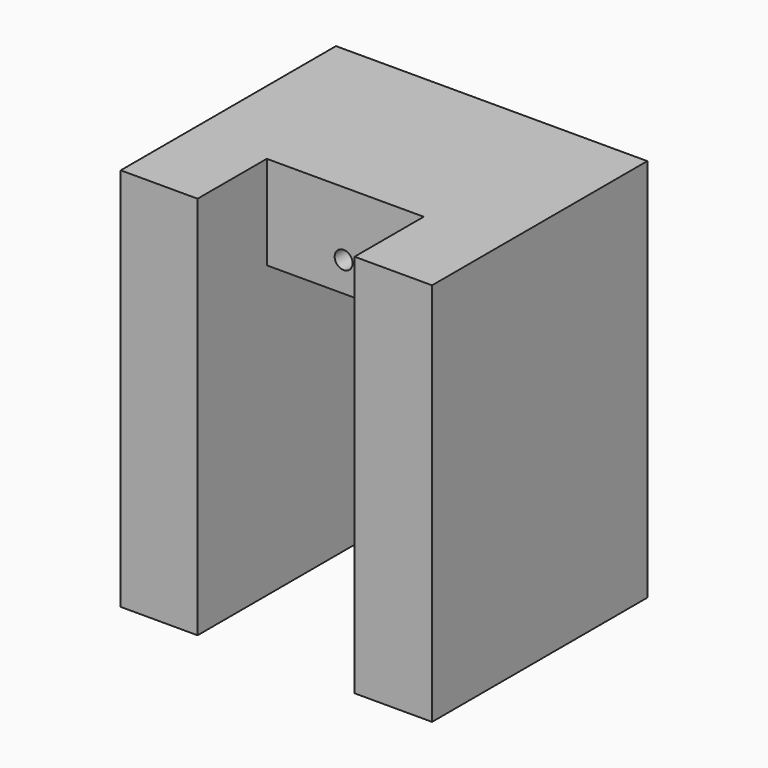
from build123d import *

# Parameters (mm, degrees)
CYLINDER004_R     = 2.4
CYLINDER004_DEPTH = 13
CYLINDER005_R     = 2.7
CYLINDER005_DEPTH = 1
CYLINDER006_R     = 2.7
CYLINDER006_DEPTH = 1
CYLINDER003_R     = 2.4
CYLINDER003_DEPTH = 13
CYLINDER002_R     = 0.7
CYLINDER002_DEPTH = 16
BOX007_W          = 12.25
BOX007_H          = 10
BOX007_DEPTH      = 10
BOX003_W          = 12.25
BOX003_H          = 23.78
BOX003_DEPTH      = 22.68
BOX008_W          = 24.3
BOX008_H          = 21
BOX008_DEPTH      = 30


with BuildPart() as cylinder004:
    # Cylinder004 → Cylinder004 (new body)
    with BuildSketch(Plane(origin=(14.74, 17.5, -6.5), x_dir=(1, 0, 0), z_dir=(0, 0, 1))):
        Circle(CYLINDER004_R)
    extrude(amount=CYLINDER004_DEPTH)


with BuildPart() as cylinder005:
    # Cylinder005 → Cylinder005 (new body)
    with BuildSketch(Plane(origin=(-2.5, 17.5, 6.5), x_dir=(1, 0, 0), z_dir=(0, 0, 1))):
        Circle(CYLINDER005_R)
    extrude(amount=CYLINDER005_DEPTH)


with BuildPart() as cylinder006:
    # Cylinder006 → Cylinder006 (new body)
    with BuildSketch(Plane(origin=(14.74, 17.5, 6.5), x_dir=(1, 0, 0), z_dir=(0, 0, 1))):
        Circle(CYLINDER006_R)
    extrude(amount=CYLINDER006_DEPTH)


with BuildPart() as fusion004:
    # Cylinder003 → Cylinder003 (new body)
    with BuildSketch(Plane(origin=(-2.5, 17.5, -6.5), x_dir=(1, 0, 0), z_dir=(0, 0, 1))):
        Circle(CYLINDER003_R)
    extrude(amount=CYLINDER003_DEPTH)

    # Fusion004: union Cylinder004, Cylinder005, Cylinder006
    add(cylinder004.part)
    add(cylinder005.part)
    add(cylinder006.part)


with BuildPart() as fusion004_1:
    # Fusion004 placement: moved
    add(fusion004.part.moved(Location((0, 0, 1))))


with BuildPart() as cylinder002:
    # Cylinder002 → Cylinder002 (new body)
    with BuildSketch(Plane(origin=(6, 22, 25), x_dir=(1, 0, 0), z_dir=(0, -1, 0))):
        Circle(CYLINDER002_R)
    extrude(amount=CYLINDER002_DEPTH)


with BuildPart() as cube004:
    # Box007 → Box007 (new body)
    with BuildSketch(Plane(origin=(0, -3.25, 22), x_dir=(1, 0, 0), z_dir=(0, 0, 1))):
        with Locations((6.125, 5)):
            Rectangle(BOX007_W, BOX007_H)
    extrude(amount=BOX007_DEPTH)


with BuildPart() as servo002:
    # Box003 → Box003 (new body)
    with BuildSketch(Plane(origin=(0, -1, 0), x_dir=(1, 0, 0), z_dir=(0, 0, 1))):
        with Locations((6.125, 11.89)):
            Rectangle(BOX003_W, BOX003_H)
    extrude(amount=BOX003_DEPTH)

    # Fusion002: union Cube004
    add(cube004.part)


with BuildPart() as fusion003:
    # Fusion003 base: copy of Cube004
    add(cube004.part)

    # Fusion003: union servo002
    add(servo002.part)


with BuildPart() as cut004:
    # Box008 → Box008 (new body)
    with BuildSketch(Plane(origin=(-6, 0, 0), x_dir=(1, 0, 0), z_dir=(0, 0, 1))):
        with Locations((12.15, 10.5)):
            Rectangle(BOX008_W, BOX008_H)
    extrude(amount=BOX008_DEPTH)

    # Cut002: cut Fusion003
    add(fusion003.part, mode=Mode.SUBTRACT)

    # Cut003: cut Cylinder002
    add(cylinder002.part, mode=Mode.SUBTRACT)

    # Cut004: cut Fusion004
    add(fusion004_1.part, mode=Mode.SUBTRACT)


solid = cut004.part
